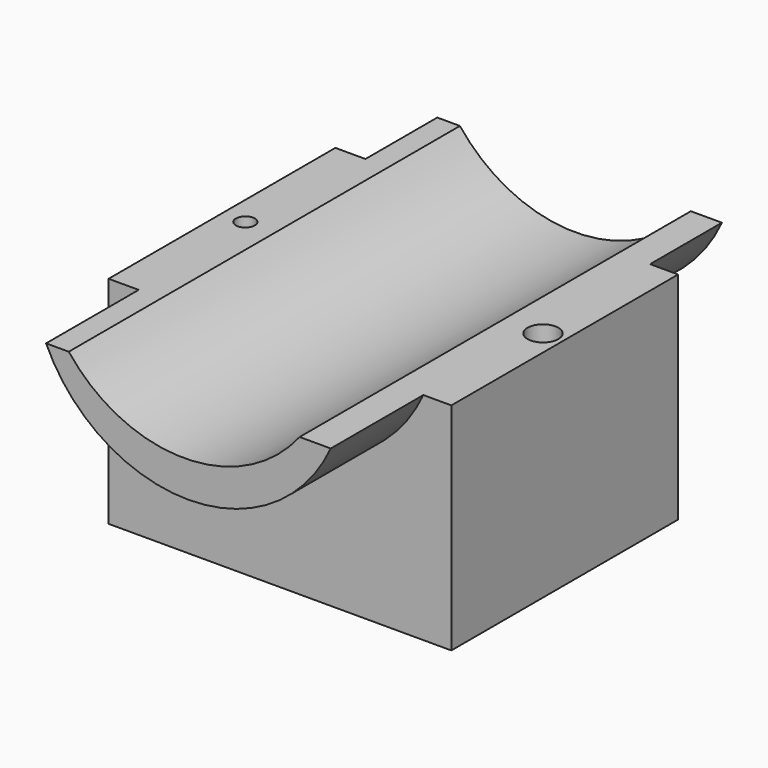
from build123d import *

# Parameters (mm, degrees)
F0_W     = 36.8556268513
F0_H     = 23.1989044696
F1_DEPTH = 30.48
F3_DEPTH = 40.132
F4_DEPTH = 52.578
F5_DEPTH = 77.978
F6_R     = 1.0180140376
F7_DEPTH = 4.1148
F8_R     = 1.6548537216
F9_DEPTH = 43.8912


with BuildPart() as f1:
    # F0 (on Front) → F1 (new body)
    with BuildSketch(Plane.XZ):
        with Locations((-18.4278134257, 11.5994522348)):
            Rectangle(F0_W, F0_H)
    extrude(amount=F1_DEPTH)

    # F2 (on face) → F3 (join)
    with BuildSketch(Plane.XZ.offset(30.48)):
        with BuildLine():
            ThreePointArc((-6.3564511947, 23.1989044696), (-18.7693366315, 17.1609803007), (-31.1822220683, 23.1989044696))
            Line((-31.1822220683, 23.1989044696), (-33.6186587811, 23.1989044696))
            ThreePointArc((-33.6186587811, 23.1989044696), (-18.3155420236, 13.3691620993), (-3.0124252662, 23.1989044696))
            Line((-3.0124252662, 23.1989044696), (-6.3564511947, 23.1989044696))
        make_face()
    extrude(amount=-F3_DEPTH)

    # F4 (add): a face of the model
    f4_faces = [f1.faces().sort_by_distance(p)[0] for p in [
        (-18.3155420236, 9.652, 13.690622107),
    ]]
    extrude(f4_faces, amount=-F4_DEPTH)

    # F5 (cut): a face of the model
    f5_faces = [f1.faces().sort_by_distance(p)[0] for p in [
        (-18.7693366315, -30.48, 20.7391498163),
    ]]
    extrude(f5_faces, amount=-F5_DEPTH, mode=Mode.SUBTRACT)

    # F6 (on face) → F7 (cut)
    with BuildSketch(Plane.XY.offset(23.1989044696)):
        with Locations((-34.3416407704, -15.24)):
            Circle(F6_R)
    extrude(amount=-F7_DEPTH, mode=Mode.SUBTRACT)

    # F8 (on face) → F9 (cut)
    with BuildSketch(Plane.XY.offset(23.1989044696)):
        with Locations((-2.1695073228, -15.4512235895)):
            Circle(F8_R)
    extrude(amount=-F9_DEPTH, mode=Mode.SUBTRACT)


solid = f1.part
